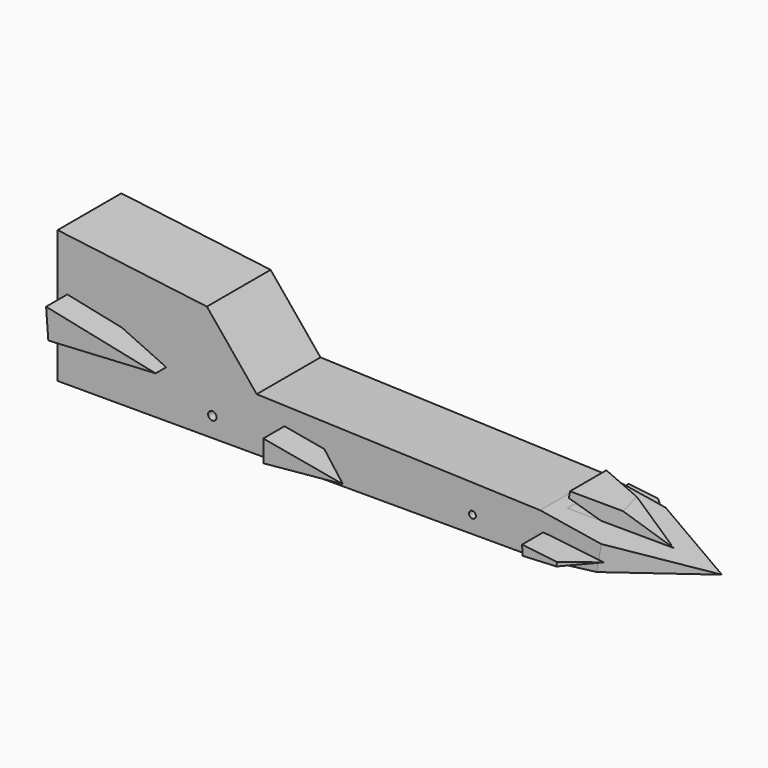
from build123d import *

# Parameters (mm, degrees)
F1_DEPTH  = 38.1
F4_DEPTH  = 38.1
F6_DEPTH  = 38.1
F8_DEPTH  = 38.1
F11_DEPTH = 12.7
F13_DEPTH = 12.7
F15_DEPTH = 12.7
F17_DEPTH = 25.4
F19_DEPTH = 7.62
F21_DEPTH = 25.4
F23_DEPTH = 12.7
F25_DEPTH = 12.7
F26_DEPTH = 12.7
F28_DEPTH = 25.4
F30_DEPTH = 25.4
F32_DEPTH = 25.4
F34_DEPTH = 25.4
F36_DEPTH = 25.4
F38_DEPTH = 25.4
F2_R      = 9.3756609964
F39_DEPTH = 50.8
F41_DEPTH = 25.4
F43_DEPTH = 25.4
F44_R     = 1.6440489173
F44_R_2   = 2.0037736154
F45_DEPTH = 50.8


with BuildPart() as f1:
    # F0 (on Front) → F1 (new body)
    with BuildSketch(Plane.XZ):
        Polygon((0, 63.5), (0, 0), (302.4093748547, 0), (302.4093748547, 25.4), align=None)
    extrude(amount=F1_DEPTH)

    # F3 (on face) → F4 (cut)
    with BuildSketch(Plane.XZ.offset(38.1)):
        Polygon((302.4093748547, 25.4), (71.378469884, 54.507158082), (95.2177494764, 25.4), (302.4093748547, 18.0674288422), align=None)
    extrude(amount=-F4_DEPTH, mode=Mode.SUBTRACT)

    # F5 (on face) → F6 (cut)
    with BuildSketch(Plane.XZ.offset(38.1)):
        Polygon((230.7509960012, 20.6034394606), (302.4093748547, 9.0337144211), (302.4093748547, 18.0674288422), align=None)
    extrude(amount=-F6_DEPTH, mode=Mode.SUBTRACT)

    # F7 (on face) → F8 (cut)
    with BuildSketch(Plane.XZ.offset(38.1)):
        Polygon((302.4093748547, 0), (302.4093748547, 9.0337144211), (230.7509960012, 0), align=None)
    extrude(amount=-F8_DEPTH, mode=Mode.SUBTRACT)

    # F10 (on face) → F11 (join)
    with BuildSketch(Plane.XZ.offset(38.1)):
        Polygon((57.0245832205, 26.8944967538), (4.6469587833, 37.9372723401), (5.7158898562, 24.0447483957), align=None)
    extrude(amount=F11_DEPTH)

    # F12 (on face) → F13 (join)
    with BuildSketch(Plane.XZ.offset(38.1)):
        Polygon((146.5801596642, 9.3731330708), (108.4925159812, 16.2170082331), (108.4925159812, 5.8024153113), align=None)
    extrude(amount=F13_DEPTH)

    # F14 (on face) → F15 (join)
    with BuildSketch(Plane.XZ.offset(38.1)):
        Polygon((261.0786855221, 8.5403770208), (232.2574704885, 11.8147395551), (232.5303256512, 7.1419519372), align=None)
    extrude(amount=F15_DEPTH)

    # F16 (on face) → F17 (cut)
    with BuildSketch(Plane(origin=(6.216250911, 0, 34.5947791457), x_dir=(0.9842368971, 0, -0.1768551111), z_dir=(0.1768551111, 0, 0.9842368971))):
        Polygon((123.2630957695, -38.1), (142.6119150394, -50.8), (142.6119150394, -38.1), align=None)
    extrude(amount=-F17_DEPTH, mode=Mode.SUBTRACT)

    # F18 (on face) → F19 (join)
    with BuildSketch(Plane(origin=(9.1045026508, 0, 56.3897497994), x_dir=(0.9872152882, 0, -0.159392518), z_dir=(0.159392518, 0, 0.9872152882))):
        Polygon((273.6749947071, -19.05), (230.3751856089, -7.3024798185), (230.3751856089, -29.0318094194), align=None)
    extrude(amount=F19_DEPTH)

    # F20 (on face) → F21 (cut)
    with BuildSketch(Plane(origin=(17.7501025045, -77.9948093822, -2.8658728914), x_dir=(0.9751003181, 0.2216146645, 0.0081430991), z_dir=(0.2217642207, -0.9744427175, -0.0358053182))):
        Polygon((238.2592436798, 18.4212918256), (225.1080880547, 25.1705576425), (224.3710737528, 20.7224409643), align=None)
    extrude(amount=-F21_DEPTH, mode=Mode.SUBTRACT)

    # F22 (on face) → F23 (join)
    with BuildSketch(Plane.XZ):
        Polygon((56.3897466524, 26.9276275739), (4.3465946801, 36.552254676), (4.3465946801, 24.2511220276), align=None)
    extrude(amount=-F23_DEPTH)

    # F24 (on face) → F25 (join)
    with BuildSketch(Plane.XZ):
        Polygon((232.4568778276, 11.635161005), (232.4568778276, 8.2633461603), (232.5210973665, 7.0146331797), (260.5405604993, 8.4556344572), align=None)
    extrude(amount=-F25_DEPTH)

    # F9 (on Front) → F26 (join)
    with BuildSketch(Plane.XZ):
        Polygon((147.8346826, 9.0159667453), (108.4925159812, 15.3243280947), (108.9198718135, 7.0146331797), align=None)
    extrude(amount=-F26_DEPTH)

    # F27 (on face) → F28 (cut)
    with BuildSketch(Plane(origin=(5.115117276, 0, 31.900486513), x_dir=(0.9873872694, 0, -0.1583236568), z_dir=(0.1583236568, 0, 0.9873872694))):
        Polygon((144.5426427436, 12.7), (124.6202840907, 0), (144.5426427436, 0), align=None)
    extrude(amount=-F28_DEPTH, mode=Mode.SUBTRACT)

    # F29 (on face) → F30 (cut)
    with BuildSketch(Plane(origin=(4.2425164902, 0, 37.4727133277), x_dir=(0.9936520123, 0, -0.1124974594), z_dir=(0.1124974594, 0, 0.9936520123))):
        Polygon((257.9354148407, 12.7), (243.803866611, 12.7), (257.9354148407, 0), align=None)
    extrude(amount=-F30_DEPTH, mode=Mode.SUBTRACT)

    # F31 (on face) → F32 (cut)
    with BuildSketch(Plane(origin=(4.2847349057, 0, 37.7145978145), x_dir=(0.993608254, 0, -0.1128832923), z_dir=(0.1128832923, 0, 0.993608254))):
        Polygon((258.4458709906, -50.8), (258.4458709906, -38.1), (246.229827404, -50.8), align=None)
    extrude(amount=-F32_DEPTH, mode=Mode.SUBTRACT)

    # F33 (on face) → F34 (cut)
    with BuildSketch(Plane(origin=(17.7501025045, -77.9948093822, -2.8658728914), x_dir=(0.9751003181, 0.2216146645, 0.0081430991), z_dir=(0.2217642207, -0.9744427175, -0.0358053182))):
        Polygon((269.454439727, 20.9764088194), (247.5355495769, 24.6081785526), (268.208854053, 13.4589014978), align=None)
    extrude(amount=-F34_DEPTH, mode=Mode.SUBTRACT)

    # F35 (on face) → F36 (cut)
    with BuildSketch(Plane(origin=(7.8556900223, 0, 37.2607754701), x_dir=(0.9784898364, 0, -0.2062950314), z_dir=(0.2062950314, 0, 0.9784898364))):
        Polygon((23.4852526042, -38.1), (50.2497740567, -44.45), (50.2497740567, -38.1), align=None)
    extrude(amount=-F36_DEPTH, mode=Mode.SUBTRACT)

    # F37 (on face) → F38 (cut)
    with BuildSketch(Plane(origin=(6.6800047408, 0, 36.1207242852), x_dir=(0.9833259332, 0, -0.1818518877), z_dir=(0.1818518877, 0, 0.9833259332))):
        Polygon((50.552660346, 0), (50.552660346, 6.35), (24.0898415521, 0), align=None)
    extrude(amount=-F38_DEPTH, mode=Mode.SUBTRACT)

    # F2 (on face) → F39 (cut)
    with BuildSketch(Plane(origin=(0, 0, 0), x_dir=(0, -1, 0), z_dir=(-1, 0, 0))):
        with Locations((19.05, 31.75)):
            Circle(F2_R)
    extrude(amount=-F39_DEPTH, mode=Mode.SUBTRACT)

    # F40 (on face) → F41 (cut)
    with BuildSketch(Plane(origin=(9.1045026508, 0, 56.3897497994), x_dir=(0.9872152882, 0, -0.159392518), z_dir=(0.159392518, 0, 0.9872152882))):
        Polygon((269.2834402546, 0), (254.3958723545, 0), (270.9897734825, -7.4018547064), align=None)
        Polygon((269.2834402546, 0), (270.9897734825, -7.4018547064), (297.1032516572, -19.05), (297.1032516572, 0), align=None)
    extrude(amount=-F41_DEPTH, mode=Mode.SUBTRACT)

    # F42 (on face) → F43 (cut)
    with BuildSketch(Plane(origin=(9.1045026508, 0, 56.3897497994), x_dir=(0.9872152882, 0, -0.159392518), z_dir=(0.159392518, 0, 0.9872152882))):
        Polygon((297.1032516572, -38.1), (297.1032516572, -19.05), (254.0944516659, -38.1), align=None)
    extrude(amount=-F43_DEPTH, mode=Mode.SUBTRACT)

    # F44 (on face) → F45 (cut)
    with BuildSketch(Plane.XZ.offset(38.1)):
        with Locations((198.3555555344, 8.1828935072)):
            Circle(F44_R)
        with Locations((73.9755779505, 9.3731330708)):
            Circle(F44_R_2)
    extrude(amount=-F45_DEPTH, mode=Mode.SUBTRACT)


solid = f1.part
